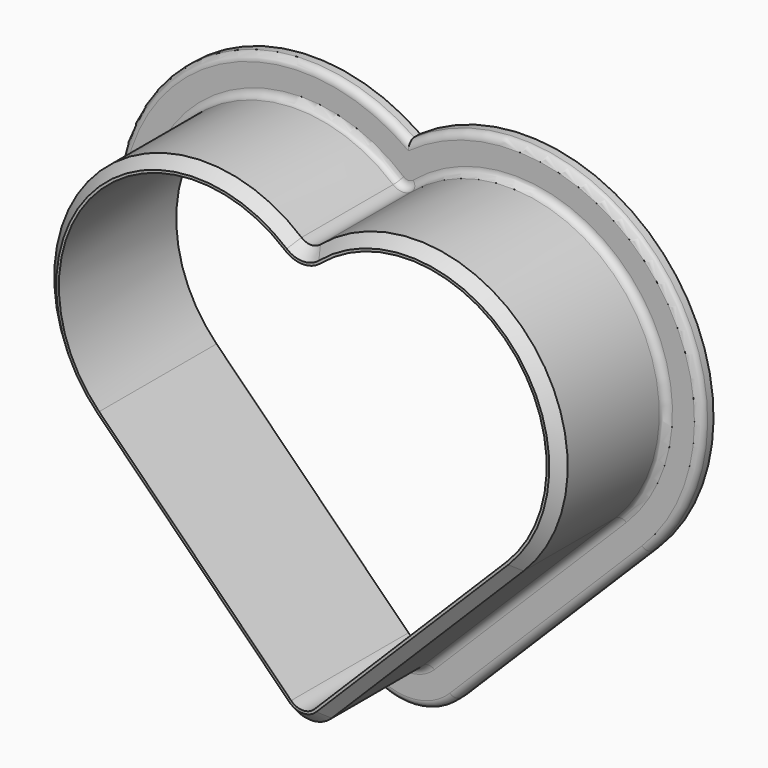
from build123d import *

# Parameters (mm, degrees)
F1_DEPTH = 20
F2_DEPTH = 2
F3_SIZE  = 1.4
F4_R     = 1


with BuildPart() as f1:
    # F0 (on Front) → F1 (new body)
    with BuildSketch(Plane.XZ):
        with BuildLine():
            Line((-28.994949, 28.994949), (-2.828427, 2.828427))
            ThreePointArc((-2.828427, 2.828427), (0, 1.656854), (2.828427, 2.828427))
            Line((2.828427, 2.828427), (28.994949, 28.994949))
            ThreePointArc((28.994949, 28.994949), (29.600194, 57.358261), (1.28852, 59.172891))
            ThreePointArc((1.28852, 59.172891), (0, 58.702505), (-1.28852, 59.172891))
            ThreePointArc((-1.28852, 59.172891), (-29.600194, 57.358261), (-28.994949, 28.994949))
        make_face()
        with BuildLine():
            ThreePointArc((1.59099, 4.065864), (0, 3.406854), (-1.59099, 4.065864))
            Line((-1.59099, 4.065864), (-27.757512, 30.232386))
            ThreePointArc((-27.757512, 30.232386), (-28.311096, 56.174738), (-2.415975, 57.83448))
            ThreePointArc((-2.415975, 57.83448), (0, 56.952505), (2.415975, 57.83448))
            ThreePointArc((2.415975, 57.83448), (28.311096, 56.174738), (27.757512, 30.232386))
            Line((27.757512, 30.232386), (1.59099, 4.065864))
        make_face(mode=Mode.SUBTRACT)
    extrude(amount=F1_DEPTH)

    # F0 (on Front) → F2 (join)
    with BuildSketch(Plane.XZ):
        with BuildLine():
            ThreePointArc((-6.363961, -0.707107), (0, -3.343146), (6.363961, -0.707107))
            Line((6.363961, -0.707107), (32.530483, 25.459415))
            ThreePointArc((32.530483, 25.459415), (34.084411, 59.824317), (0, 64.473416))
            ThreePointArc((0, 64.473416), (-34.084411, 59.824317), (-32.530483, 25.459415))
            Line((-32.530483, 25.459415), (-6.363961, -0.707107))
        make_face()
        with BuildLine():
            ThreePointArc((2.828427, 2.828427), (0, 1.656854), (-2.828427, 2.828427))
            Line((-2.828427, 2.828427), (-28.994949, 28.994949))
            ThreePointArc((-28.994949, 28.994949), (-29.600194, 57.358261), (-1.28852, 59.172891))
            ThreePointArc((-1.28852, 59.172891), (0, 58.702505), (1.28852, 59.172891))
            ThreePointArc((1.28852, 59.172891), (29.600194, 57.358261), (28.994949, 28.994949))
            Line((28.994949, 28.994949), (2.828427, 2.828427))
        make_face(mode=Mode.SUBTRACT)
    extrude(amount=F2_DEPTH)

    # F3
    f3_edges = [f1.edges().sort_by_distance(p)[0] for p in [
        (15.911688, -20, 15.911688),
    ]]
    chamfer(f3_edges, length=F3_SIZE)

    # F4
    f4_edges = [f1.edges().sort_by_distance(p)[0] for p in [
        (15.911688, -2, 15.911688),
        (19.447222, -2, 12.376154),
    ]]
    fillet(f4_edges, radius=F4_R)


solid = f1.part
